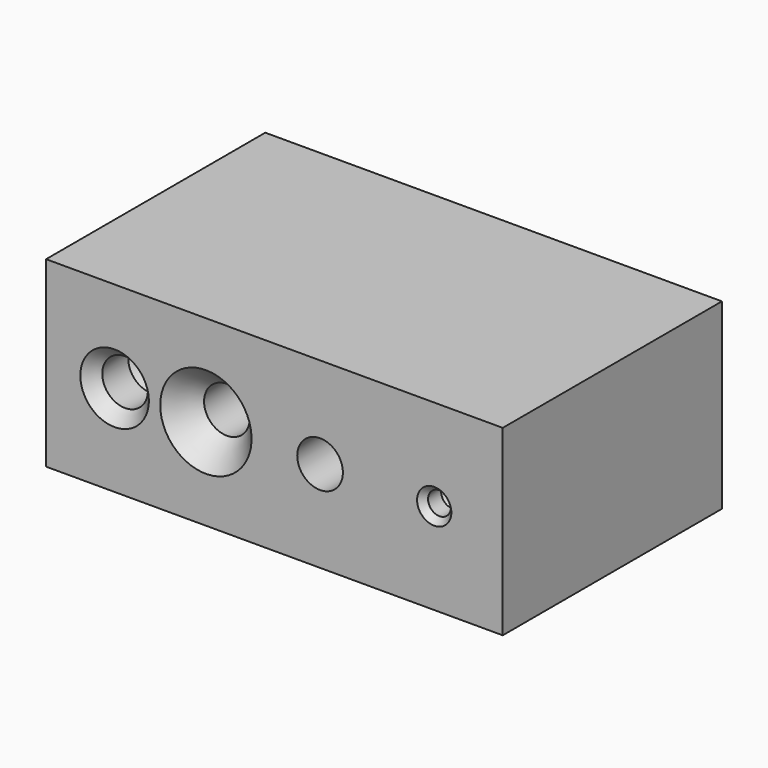
from build123d import *

# Parameters (mm, degrees)
F0_W           = 127
F0_H           = 50.8
F1_DEPTH       = 76.2
F3_D           = 12.7
F3_DEPTH       = 12.7
F3_CSINK_D     = 19.05
F3_CSINK_ANGLE = 82
F3_TIP         = 3.8154649308
F4_D           = 12.7
F4_CSINK_D     = 25.4
F4_CSINK_ANGLE = 82
F5_D           = 12.7
F6_D           = 6.35
F6_DEPTH       = 6.35
F6_CSINK_D     = 9.525
F6_CSINK_ANGLE = 82
F6_TIP         = 1.9077324654


with BuildPart() as f1:
    # F0 (on Front) → F1 (new body)
    with BuildSketch(Plane.XZ):
        with Locations((-63.5, 25.4)):
            Rectangle(F0_W, F0_H)
    extrude(amount=F1_DEPTH)

    # F3
    with Locations(Plane.XZ.offset(76.2)):
        with Locations((-107.95, 25.4)):
            CounterSinkHole(F3_D / 2, F3_CSINK_D / 2, depth=F3_DEPTH, counter_sink_angle=F3_CSINK_ANGLE)
            with Locations((0, 0, -(F3_DEPTH + F3_TIP / 2))):  # 118° drill point
                Cone(0, F3_D / 2, F3_TIP, mode=Mode.SUBTRACT)

    # F4 (through all)
    with Locations(Plane.XZ.offset(76.2)):
        with Locations((-82.55, 25.4)):
            CounterSinkHole(F4_D / 2, F4_CSINK_D / 2, counter_sink_angle=F4_CSINK_ANGLE)

    # F5 (through all)
    with Locations(Plane.XZ.offset(76.2)):
        with Locations((-50.8, 25.4)):
            Hole(F5_D / 2)

    # F6
    with Locations(Plane.XZ.offset(76.2)):
        with Locations((-19.05, 25.4)):
            CounterSinkHole(F6_D / 2, F6_CSINK_D / 2, depth=F6_DEPTH, counter_sink_angle=F6_CSINK_ANGLE)
            with Locations((0, 0, -(F6_DEPTH + F6_TIP / 2))):  # 118° drill point
                Cone(0, F6_D / 2, F6_TIP, mode=Mode.SUBTRACT)


solid = f1.part
